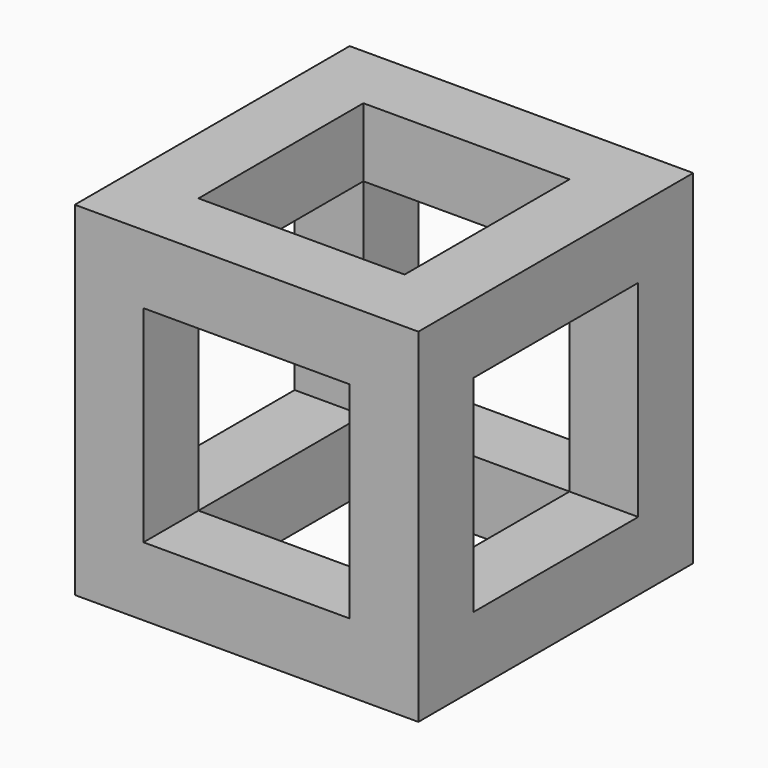
from build123d import *

# Parameters (mm, degrees)
F0_W     = 25.4
F0_H     = 25.4
F0_W_2   = 15.24
F0_H_2   = 15.24
F1_DEPTH = 5.08
F2_W     = 5.08
F2_H     = 5.08
F3_DEPTH = 15.24
F4_W     = 25.4
F4_H     = 25.4
F4_W_2   = 15.24
F4_H_2   = 15.24
F5_DEPTH = 5.08


with BuildPart() as f1:
    # F0 (on Top) → F1 (new body)
    with BuildSketch(Plane.XY):
        Rectangle(F0_W, F0_H)
        Rectangle(F0_W_2, F0_H_2, mode=Mode.SUBTRACT)
    extrude(amount=F1_DEPTH)

    # F2 (on face) → F3 (join)
    with BuildSketch(Plane.XY.offset(5.08)):
        with Locations((-10.16, 10.16)):
            Rectangle(F2_W, F2_H)
        with Locations((10.16, 10.16)):
            Rectangle(F2_W, F2_H)
        with Locations((10.16, -10.16)):
            Rectangle(F2_W, F2_H)
        with Locations((-10.16, -10.16)):
            Rectangle(F2_W, F2_H)
    extrude(amount=F3_DEPTH)

    # F4 (on face) → F5 (join)
    with BuildSketch(Plane.XY.offset(20.32)):
        Rectangle(F4_W, F4_H)
        Rectangle(F4_W_2, F4_H_2, mode=Mode.SUBTRACT)
    extrude(amount=F5_DEPTH)


solid = f1.part
